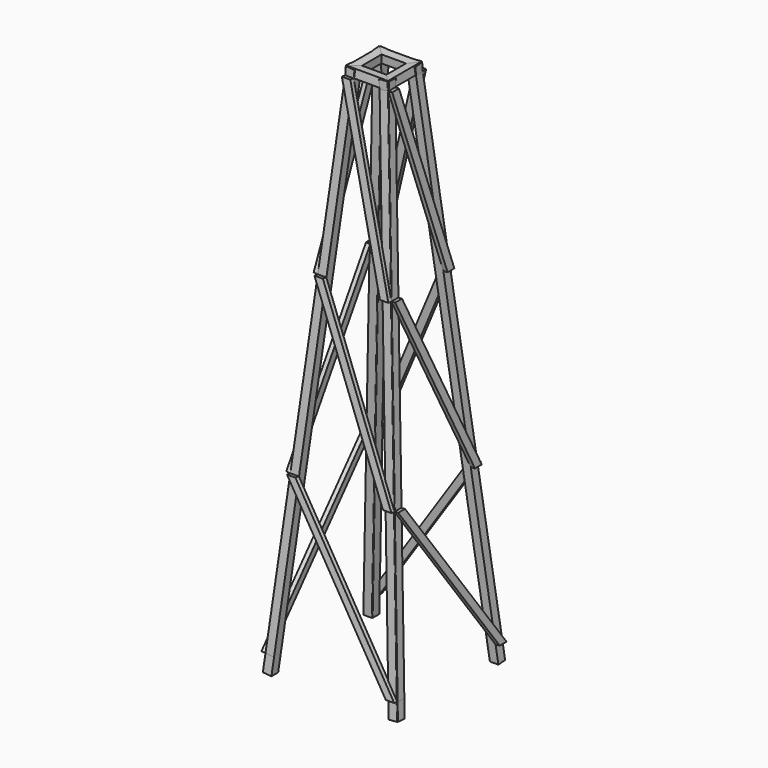
from build123d import *

# Parameters (mm, degrees)
F5_DEPTH = 3.175
F6_DEPTH = 3.175
F7_DEPTH = 3.175
F8_DEPTH = 1.5875
F9_COUNT = 4


with BuildPart() as f5:
    # F4 (on line) → F5 (new body)
    with BuildSketch(Plane(origin=(0, -25.2070583861, 2.2053322939), x_dir=(1, 0, 0), z_dir=(0, -0.9961946966, 0.0871557602))):
        Polygon((-8.1596356954, 200.2332657202), (-8.1596356954, 197.0582657202), (-4.9725077112, 197.0582657202), (4.9725077112, 197.0582657202), (8.1596356954, 197.0582657202), (8.1596356954, 200.2332657202), align=None)
    extrude(amount=-F5_DEPTH)

    # F4 (on line) → F7 (join)
    with BuildSketch(Plane(origin=(0, -25.2070583861, 2.2053322939), x_dir=(1, 0, 0), z_dir=(0, -0.9961946966, 0.0871557602))):
        Polygon((-4.9725077112, 197.0582657202), (-8.1596356954, 197.0582657202), (-5.7162625489, 188.5571090249), align=None)
        Polygon((-5.7162625489, 188.5571090249), (-8.1596356954, 197.0582657202), (-13.9062760659, 131.3738657202), (-10.7191480817, 131.3738657202), align=None)
        Polygon((-11.2262337703, 125.5778497774), (-13.9062760659, 131.3738657202), (-19.6529164364, 65.6894657202), (-16.4657884522, 65.6894657202), align=None)
        Polygon((-10.7191480817, 131.3738657202), (-13.9062760659, 131.3738657202), (-11.2262337703, 125.5778497774), align=None)
        Polygon((-16.4657884522, 65.6894657202), (-19.6529164364, 65.6894657202), (-16.8216044507, 61.6224702472), align=None)
        Polygon((-16.8216044507, 61.6224702472), (-19.6529164364, 65.6894657202), (-25.4, 0), (-22.2370818336, 0), (-22.2128720158, 0), align=None)
    extrude(amount=-F7_DEPTH)


with BuildPart() as f6:
    # F4 (on line) → F6 (new body)
    with BuildSketch(Plane(origin=(0, -25.2070583861, 2.2053322939), x_dir=(1, 0, 0), z_dir=(0, -0.9961946966, 0.0871557602))):
        Polygon((21.1992164113, 11.5861365765), (21.6573190024, 6.35), (24.8444469866, 6.35), align=None)
        Polygon((8.1596356954, 197.0582657202), (4.9725077112, 197.0582657202), (9.3244573772, 147.3152534193), (13.9062760659, 131.3738657202), align=None)
        Polygon((13.9062760659, 131.3738657202), (9.3244573772, 147.3152534193), (10.7191480817, 131.3738657202), align=None)
        Polygon((13.9062760659, 131.3738657202), (10.7191480817, 131.3738657202), (15.7220336145, 74.1906224154), (19.6529164364, 65.6894657202), align=None)
        Polygon((15.7220336145, 74.1906224154), (16.4657884522, 65.6894657202), (19.6529164364, 65.6894657202), align=None)
        Polygon((19.6529164364, 65.6894657202), (16.4657884522, 65.6894657202), (21.1992164113, 11.5861365765), (24.8444469866, 6.35), align=None)
        Polygon((24.8444469866, 6.35), (21.6573190024, 6.35), (22.2128720158, 0), (25.4, 0), align=None)
    extrude(amount=-F6_DEPTH)


with BuildPart() as f8:
    # F4 (on line) → F8 (new body)
    with BuildSketch(Plane(origin=(0, -25.2070583861, 2.2053322939), x_dir=(1, 0, 0), z_dir=(0, -0.9961946966, 0.0871557602))):
        Polygon((-16.4657884522, 65.6894657202), (-16.8216044507, 61.6224702472), (21.6573190024, 6.35), (21.1992164113, 11.5861365765), align=None)
        Polygon((-16.4657884522, 65.6894657202), (-19.6529164364, 65.6894657202), (-16.8216044507, 61.6224702472), align=None)
        Polygon((21.1992164113, 11.5861365765), (21.6573190024, 6.35), (24.8444469866, 6.35), align=None)
    extrude(amount=F8_DEPTH)


with BuildPart() as f8b:
    # F4 (on line) → F8, piece 2 (new body)
    with BuildSketch(Plane(origin=(0, -25.2070583861, 2.2053322939), x_dir=(1, 0, 0), z_dir=(0, -0.9961946966, 0.0871557602))):
        Polygon((-10.7191480817, 131.3738657202), (-13.9062760659, 131.3738657202), (-11.2262337703, 125.5778497774), align=None)
        Polygon((15.7220336145, 74.1906224154), (16.4657884522, 65.6894657202), (19.6529164364, 65.6894657202), align=None)
        Polygon((-10.7191480817, 131.3738657202), (-11.2262337703, 125.5778497774), (16.4657884522, 65.6894657202), (15.7220336145, 74.1906224154), align=None)
    extrude(amount=F8_DEPTH)


with BuildPart() as f8c:
    # F4 (on line) → F8, piece 3 (new body)
    with BuildSketch(Plane(origin=(0, -25.2070583861, 2.2053322939), x_dir=(1, 0, 0), z_dir=(0, -0.9961946966, 0.0871557602))):
        Polygon((-4.9725077112, 197.0582657202), (-8.1596356954, 197.0582657202), (-5.7162625489, 188.5571090249), align=None)
        Polygon((13.9062760659, 131.3738657202), (9.3244573772, 147.3152534193), (10.7191480817, 131.3738657202), align=None)
        Polygon((9.3244573772, 147.3152534193), (-4.9725077112, 197.0582657202), (-5.7162625489, 188.5571090249), (10.7191480817, 131.3738657202), align=None)
    extrude(amount=F8_DEPTH)


with BuildPart() as f9_1:
    # F9: instance of F5
    add(f5.part.rotate(Axis((0, 0, 98.425), (0, 0, 1)), 1 * 360 / F9_COUNT))


with BuildPart() as f9_2:
    # F9: instance of F5
    add(f5.part.rotate(Axis((0, 0, 98.425), (0, 0, 1)), 2 * 360 / F9_COUNT))


with BuildPart() as f9_3:
    # F9: instance of F5
    add(f5.part.rotate(Axis((0, 0, 98.425), (0, 0, 1)), 3 * 360 / F9_COUNT))


with BuildPart() as f9_4:
    # F9: instance of F6
    add(f6.part.rotate(Axis((0, 0, 98.425), (0, 0, 1)), 1 * 360 / F9_COUNT))


with BuildPart() as f9_5:
    # F9: instance of F6
    add(f6.part.rotate(Axis((0, 0, 98.425), (0, 0, 1)), 2 * 360 / F9_COUNT))


with BuildPart() as f9_6:
    # F9: instance of F6
    add(f6.part.rotate(Axis((0, 0, 98.425), (0, 0, 1)), 3 * 360 / F9_COUNT))


with BuildPart() as f9_7:
    # F9: instance of F8c
    add(f8c.part.rotate(Axis((0, 0, 98.425), (0, 0, 1)), 1 * 360 / F9_COUNT))


with BuildPart() as f9_8:
    # F9: instance of F8c
    add(f8c.part.rotate(Axis((0, 0, 98.425), (0, 0, 1)), 2 * 360 / F9_COUNT))


with BuildPart() as f9_9:
    # F9: instance of F8c
    add(f8c.part.rotate(Axis((0, 0, 98.425), (0, 0, 1)), 3 * 360 / F9_COUNT))


with BuildPart() as f9_10:
    # F9: instance of F8b
    add(f8b.part.rotate(Axis((0, 0, 98.425), (0, 0, 1)), 1 * 360 / F9_COUNT))


with BuildPart() as f9_11:
    # F9: instance of F8b
    add(f8b.part.rotate(Axis((0, 0, 98.425), (0, 0, 1)), 2 * 360 / F9_COUNT))


with BuildPart() as f9_12:
    # F9: instance of F8b
    add(f8b.part.rotate(Axis((0, 0, 98.425), (0, 0, 1)), 3 * 360 / F9_COUNT))


with BuildPart() as f9_13:
    # F9: instance of F8
    add(f8.part.rotate(Axis((0, 0, 98.425), (0, 0, 1)), 1 * 360 / F9_COUNT))


with BuildPart() as f9_14:
    # F9: instance of F8
    add(f8.part.rotate(Axis((0, 0, 98.425), (0, 0, 1)), 2 * 360 / F9_COUNT))


with BuildPart() as f9_15:
    # F9: instance of F8
    add(f8.part.rotate(Axis((0, 0, 98.425), (0, 0, 1)), 3 * 360 / F9_COUNT))


solid = Compound([f5.part, f6.part, f8.part, f8b.part, f8c.part, f9_1.part, f9_2.part, f9_3.part, f9_4.part, f9_5.part, f9_6.part, f9_7.part, f9_8.part, f9_9.part, f9_10.part, f9_11.part, f9_12.part, f9_13.part, f9_14.part, f9_15.part])
